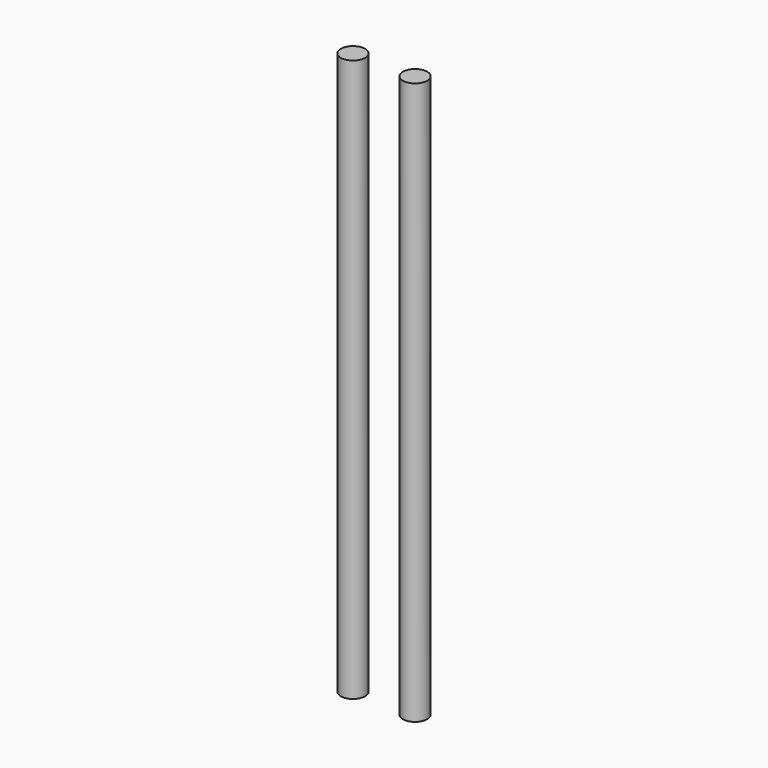
from build123d import *

# Parameters (mm, degrees)
F0_R     = 0.5
F1_DEPTH = 23


with BuildPart() as f1:
    # F0 (on Top) → F1 (new body)
    with BuildSketch(Plane.XY):
        with BuildLine():
            ThreePointArc((0.77, 0), (1.27, -0.5), (1.77, 0))
            ThreePointArc((1.77, 0), (1.27, 0.5), (0.77, 0))
        make_face()
        with Locations((-1.27, 0)):
            Circle(F0_R)
    extrude(amount=F1_DEPTH)


solid = f1.part
